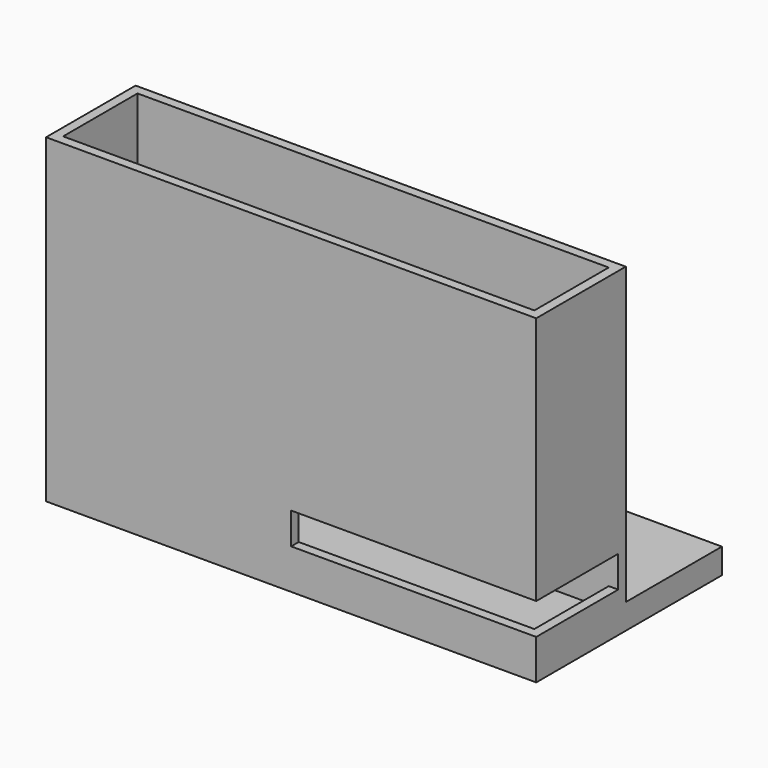
from build123d import *

# Parameters (mm, degrees)
F0_W     = 77.676
F0_H     = 17.732
F0_W_2   = 74.676
F0_H_2   = 14.732
F1_DEPTH = 50.8
F2_DEPTH = 3
F3_W     = 19.05
F3_H     = 4
F4_DEPTH = 19.05
F5_W     = 14.732
F5_H     = 14.732
F6_DEPTH = 5
F7_W     = 38.838
F7_H     = 5
F8_DEPTH = 16.232


with BuildPart() as f1:
    # F0 (on Top) → F1 (new body)
    with BuildSketch(Plane.XY):
        Rectangle(F0_W, F0_H)
        Rectangle(F0_W_2, F0_H_2, mode=Mode.SUBTRACT)
    extrude(amount=F1_DEPTH)

    # F0 (on Top) → F2 (join)
    with BuildSketch(Plane.XY):
        Rectangle(F0_W_2, F0_H_2)
    extrude(amount=F2_DEPTH)

    # F3 (on face) → F4 (join)
    with BuildSketch(Plane(origin=(0, 8.866, 0), x_dir=(-1, 0, 0), z_dir=(0, 1, 0))):
        with Locations((-29.313, 2)):
            Rectangle(F3_W, F3_H)
        with Locations((29.313, 2)):
            Rectangle(F3_W, F3_H)
    extrude(amount=F4_DEPTH)

    # F5 (on face) → F6 (cut)
    with BuildSketch(Plane(origin=(-38.838, 0, 0), x_dir=(0, -1, 0), z_dir=(-1, 0, 0))):
        with Locations((0, 10.366)):
            Rectangle(F5_W, F5_H)
    extrude(amount=-F6_DEPTH, mode=Mode.SUBTRACT)

    # F7 (on face) → F8 (cut)
    with BuildSketch(Plane.XZ.offset(8.866)):
        with Locations((19.419, 8.85)):
            Rectangle(F7_W, F7_H)
    extrude(amount=-F8_DEPTH, mode=Mode.SUBTRACT)


solid = f1.part
